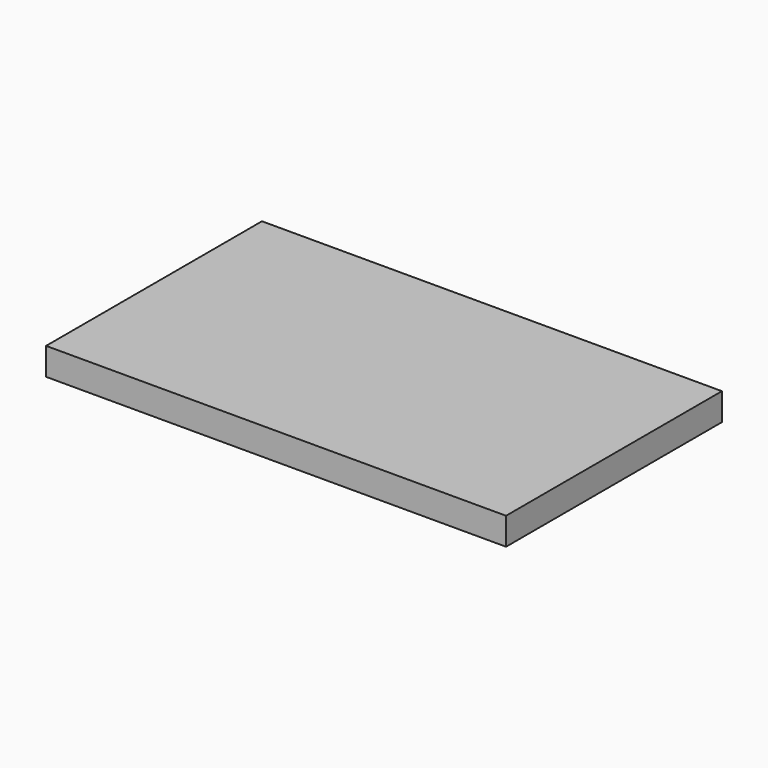
from build123d import *

# Parameters (mm, degrees)
F0_W     = 7.2151930332
F0_H     = 6.6723177403
F1_DEPTH = 9.55
F2_DEPTH = 7.55
F3_DEPTH = 1


with BuildPart() as f1:
    # F0 (on Top) → F1 (new body)
    with BuildSketch(Plane.XY):
        Polygon((-80.6037993431, 76.7011865973), (-80.6037993431, 83.3735043377), (-83.6037993431, 83.3735043377), (-83.6037993431, -11.0764956623), (77.3962006569, -11.0764956623), (77.3962006569, 83.3735043377), (74.3962006569, 83.3735043377), (74.3962006569, 76.7011865973), (74.3962006569, 7.9235043377), (74.3962006569, -8.0764956623), (61.3962006569, -8.0764956623), (-67.6037993431, -8.0764956623), (-80.6037993431, -8.0764956623), (-80.6037993431, 7.9235043377), align=None)
        Polygon((-67.6037993431, -8.0764956623), (-80.6037993431, 7.9235043377), (-80.6037993431, -8.0764956623), align=None)
        Polygon((74.3962006569, 7.9235043377), (61.3962006569, -8.0764956623), (74.3962006569, -8.0764956623), align=None)
        Polygon((67.1810076237, 83.3735043377), (-73.3886063099, 83.3735043377), (-73.3886063099, 76.7011865973), (-80.6037993431, 76.7011865973), (-80.6037993431, 7.9235043377), (-67.6037993431, -8.0764956623), (61.3962006569, -8.0764956623), (74.3962006569, 7.9235043377), (74.3962006569, 76.7011865973), (67.1810076237, 76.7011865973), align=None)
        with Locations((70.7886041403, 80.0373454675)):
            Rectangle(F0_W, F0_H)
        with Locations((-76.9962028265, 80.0373454675)):
            Rectangle(F0_W, F0_H)
    extrude(amount=F1_DEPTH)

    # F0 (on Top) → F2 (cut)
    with BuildSketch(Plane.XY):
        Polygon((67.1810076237, 83.3735043377), (-73.3886063099, 83.3735043377), (-73.3886063099, 76.7011865973), (-80.6037993431, 76.7011865973), (-80.6037993431, 7.9235043377), (-67.6037993431, -8.0764956623), (61.3962006569, -8.0764956623), (74.3962006569, 7.9235043377), (74.3962006569, 76.7011865973), (67.1810076237, 76.7011865973), align=None)
        Polygon((-67.6037993431, -8.0764956623), (-80.6037993431, 7.9235043377), (-80.6037993431, -8.0764956623), align=None)
        Polygon((74.3962006569, 7.9235043377), (61.3962006569, -8.0764956623), (74.3962006569, -8.0764956623), align=None)
        with Locations((70.7886041403, 80.0373454675)):
            Rectangle(F0_W, F0_H)
        with Locations((-76.9962028265, 80.0373454675)):
            Rectangle(F0_W, F0_H)
    extrude(amount=F2_DEPTH, mode=Mode.SUBTRACT)

    # F0 (on Top) → F3 (join)
    with BuildSketch(Plane.XY):
        Polygon((-67.6037993431, -8.0764956623), (-80.6037993431, 7.9235043377), (-80.6037993431, -8.0764956623), align=None)
        Polygon((74.3962006569, 7.9235043377), (61.3962006569, -8.0764956623), (74.3962006569, -8.0764956623), align=None)
        with Locations((70.7886041403, 80.0373454675)):
            Rectangle(F0_W, F0_H)
        with Locations((-76.9962028265, 80.0373454675)):
            Rectangle(F0_W, F0_H)
    extrude(amount=F3_DEPTH)


solid = f1.part
